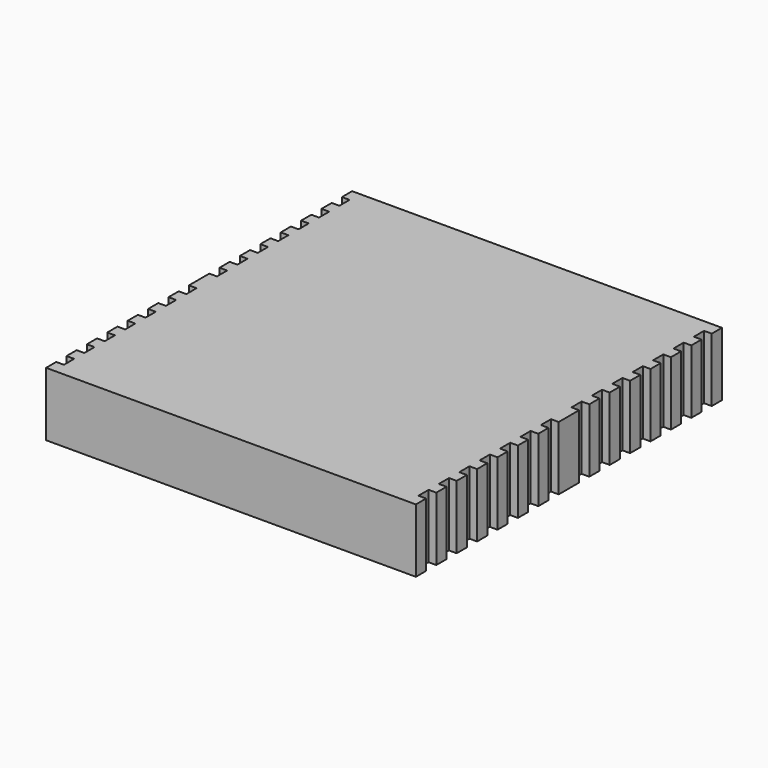
from build123d import *

# Parameters (mm, degrees)
F1_DEPTH = 25


with BuildPart() as f1:
    # F0 (on Top) → F1 (new body)
    with BuildSketch(Plane.XY):
        Polygon((72.5, 70), (72.5, 75), (-72.5, 75), (-72.5, 70), (-69.5, 70), (-69.5, 65), (-72.5, 65), (-72.5, 60), (-69.5, 60), (-69.5, 55), (-72.5, 55), (-72.5, 50), (-69.5, 50), (-69.5, 45), (-72.5, 45), (-72.5, 40), (-69.5, 40), (-69.5, 35), (-72.5, 35), (-72.5, 30), (-69.5, 30), (-69.5, 25), (-72.5, 25), (-72.5, 20), (-69.5, 20), (-69.5, 15), (-72.5, 15), (-72.5, 10), (-69.5, 10), (-69.5, 5), (-72.5, 5), (-72.5, 0), (-72.5, -5), (-69.5, -5), (-69.5, -10), (-72.5, -10), (-72.5, -15), (-69.5, -15), (-69.5, -20), (-72.5, -20), (-72.5, -25), (-69.5, -25), (-69.5, -30), (-72.5, -30), (-72.5, -35), (-69.5, -35), (-69.5, -40), (-72.5, -40), (-72.5, -45), (-69.5, -45), (-69.5, -50), (-72.5, -50), (-72.5, -55), (-69.5, -55), (-69.5, -60), (-72.5, -60), (-72.5, -65), (-69.5, -65), (-69.5, -70), (-72.5, -70), (-72.5, -75), (72.5, -75), (72.5, -70), (69.5, -70), (69.5, -65), (72.5, -65), (72.5, -60), (69.5, -60), (69.5, -55), (72.5, -55), (72.5, -50), (69.5, -50), (69.5, -45), (72.5, -45), (72.5, -40), (69.5, -40), (69.5, -35), (72.5, -35), (72.5, -30), (69.5, -30), (69.5, -25), (72.5, -25), (72.5, -20), (69.5, -20), (69.5, -15), (72.5, -15), (72.5, -10), (69.5, -10), (69.5, -5), (72.5, -5), (72.5, 0), (72.5, 5), (69.5, 5), (69.5, 10), (72.5, 10), (72.5, 15), (69.5, 15), (69.5, 20), (72.5, 20), (72.5, 25), (69.5, 25), (69.5, 30), (72.5, 30), (72.5, 35), (69.5, 35), (69.5, 40), (72.5, 40), (72.5, 45), (69.5, 45), (69.5, 50), (72.5, 50), (72.5, 55), (69.5, 55), (69.5, 60), (72.5, 60), (72.5, 65), (69.5, 65), (69.5, 70), align=None)
    extrude(amount=F1_DEPTH)


solid = f1.part
